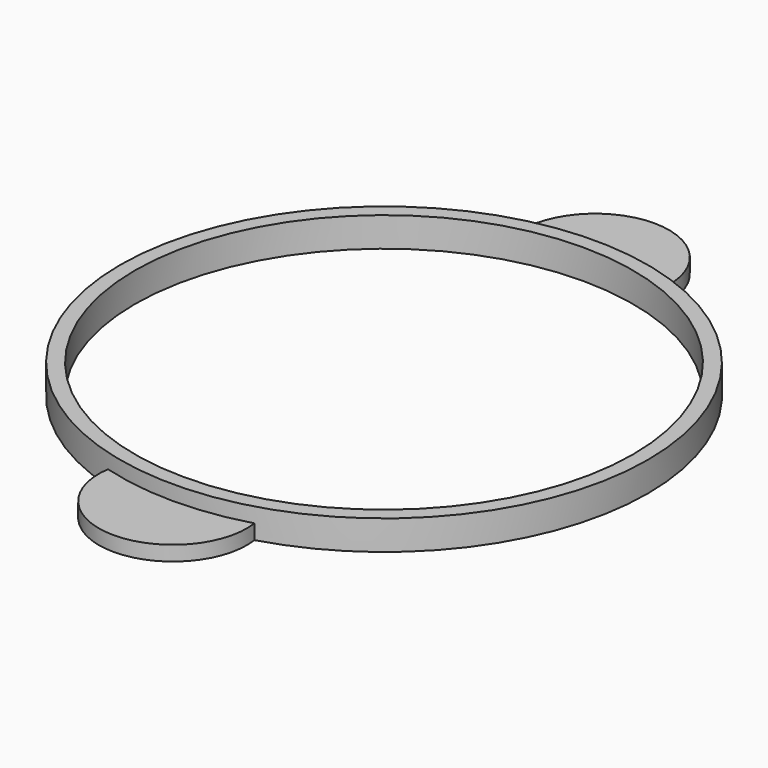
from build123d import *

# Parameters (mm, degrees)
F0_R     = 53.5
F0_R_2   = 50.5
F1_DEPTH = 6
F3_DEPTH = 3


with BuildPart() as f1:
    # F0 (on Top) → F1 (new body)
    with BuildSketch(Plane.XY):
        Circle(F0_R)
        Circle(F0_R_2, mode=Mode.SUBTRACT)
    extrude(amount=F1_DEPTH)

    # F2 (on Top) → F3 (join)
    with BuildSketch(Plane.XY):
        with BuildLine():
            ThreePointArc((14.851876, -51.397196), (0, -53.5), (-14.851876, -51.397196))
            ThreePointArc((-14.851876, -51.397196), (0, -68.5), (14.851876, -51.397196))
        make_face()
        with BuildLine():
            ThreePointArc((-14.851876, 51.397196), (0, 53.5), (14.851876, 51.397196))
            ThreePointArc((14.851876, 51.397196), (0, 68.5), (-14.851876, 51.397196))
        make_face()
    extrude(amount=F3_DEPTH)


solid = f1.part
